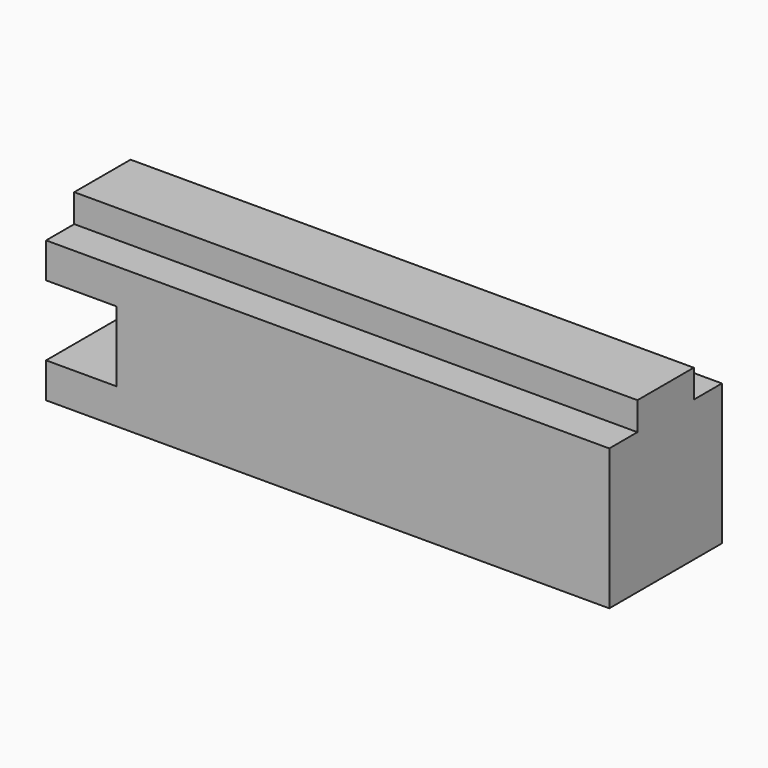
from build123d import *

# Parameters (mm, degrees)
F0_W     = 400
F0_H     = 100
F1_DEPTH = 120
F2_W     = 400
F2_H     = 25
F3_DEPTH = 20
F4_W     = 100
F4_H     = 50
F5_DEPTH = 50


with BuildPart() as f1:
    # F0 (on Top) → F1 (new body)
    with BuildSketch(Plane.XY):
        with Locations((4.366027, -45.098615)):
            Rectangle(F0_W, F0_H)
    extrude(amount=F1_DEPTH)

    # F2 (on face) → F3 (cut)
    with BuildSketch(Plane.XY.offset(120)):
        with Locations((4.366027, -7.598615)):
            Rectangle(F2_W, F2_H)
        with Locations((4.366027, -82.598615)):
            Rectangle(F2_W, F2_H)
    extrude(amount=-F3_DEPTH, mode=Mode.SUBTRACT)

    # F4 (on face) → F5 (cut)
    with BuildSketch(Plane(origin=(-195.633973, 0, 0), x_dir=(0, -1, 0), z_dir=(-1, 0, 0))):
        with Locations((45.098615, 50)):
            Rectangle(F4_W, F4_H)
    extrude(amount=-F5_DEPTH, mode=Mode.SUBTRACT)


solid = f1.part
